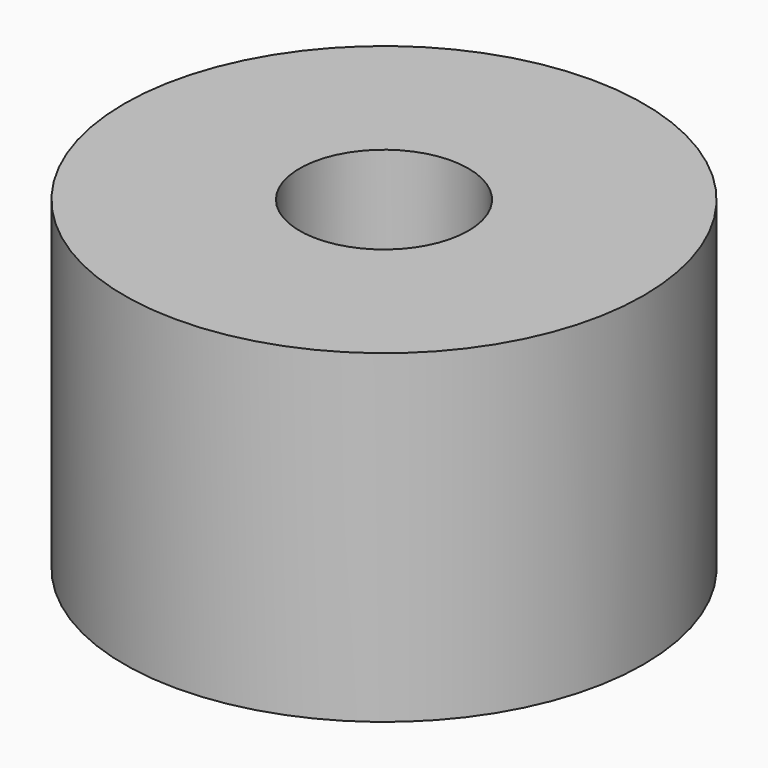
from build123d import *

# Parameters (mm, degrees)
CYLINDER1037_R     = 1
CYLINDER1037_DEPTH = 20
CYLINDER1041_R     = 1
CYLINDER1041_DEPTH = 20
CYLINDER1027_R     = 1
CYLINDER1027_DEPTH = 20
CYLINDER1031_R     = 1
CYLINDER1031_DEPTH = 20
TUBE087_R          = 8
TUBE087_R_2        = 2.6
TUBE087_DEPTH      = 10


with BuildPart() as obj1:
    # Cylinder1037 → Cylinder1037 (new body)
    with BuildSketch(Plane(origin=(4.25, -4.25, -88), x_dir=(0, 1, 0), z_dir=(0, 0, 1))):
        Circle(CYLINDER1037_R)
    extrude(amount=CYLINDER1037_DEPTH)


with BuildPart() as obj2:
    # Cylinder1041 → Cylinder1041 (new body)
    with BuildSketch(Plane(origin=(4.25, 4.25, -88), x_dir=(-1, 0, 0), z_dir=(0, 0, 1))):
        Circle(CYLINDER1041_R)
    extrude(amount=CYLINDER1041_DEPTH)


with BuildPart() as obj3:
    # Cylinder1027 → Cylinder1027 (new body)
    with BuildSketch(Plane(origin=(-4.25, 4.25, -88), x_dir=(0, -1, 0), z_dir=(0, 0, 1))):
        Circle(CYLINDER1027_R)
    extrude(amount=CYLINDER1027_DEPTH)


with BuildPart() as compound829:
    # Cylinder1031 → Cylinder1031 (new body)
    with BuildSketch(Plane(origin=(-4.25, -4.25, -88), x_dir=(1, 0, 0), z_dir=(0, 0, 1))):
        Circle(CYLINDER1031_R)
    extrude(amount=CYLINDER1031_DEPTH)

    # Compound829: union obj1, obj2, obj3
    add(obj1.part)
    add(obj2.part)
    add(obj3.part)


with BuildPart() as compound829_1:
    # Compound829 placement: moved
    add(compound829.part.moved(Location((0, 0, 91))))


with BuildPart() as cut372:
    # Tube087 → Tube087 (new body)
    with BuildSketch(Plane.XY.offset(19)):
        Circle(TUBE087_R)
        Circle(TUBE087_R_2, mode=Mode.SUBTRACT)
    extrude(amount=TUBE087_DEPTH)

    # Cut372: cut Compound829
    add(compound829_1.part, mode=Mode.SUBTRACT)


solid = cut372.part
